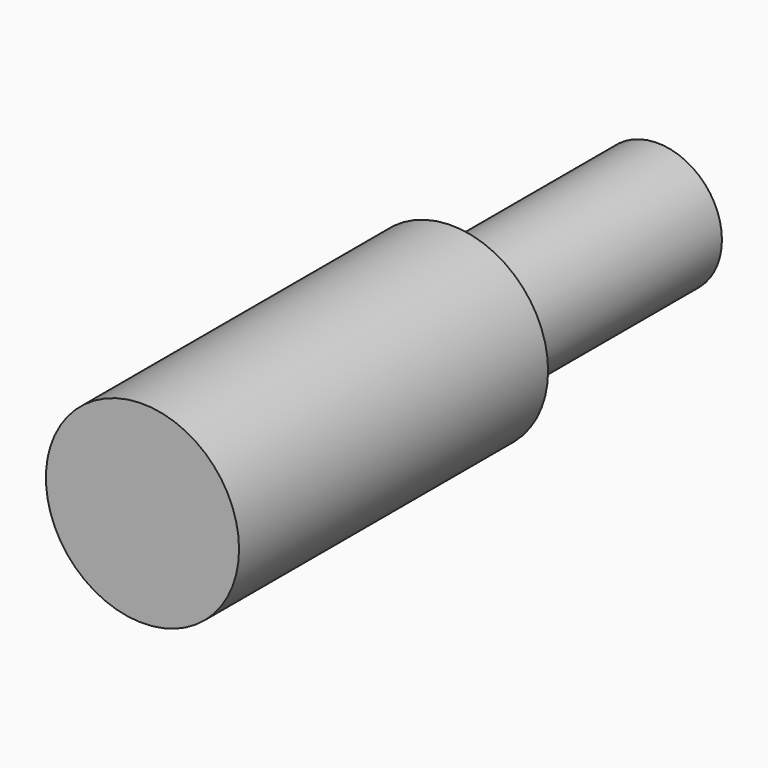
from build123d import *

# Parameters (mm, degrees)
F0_R     = 4.7625
F0_R_2   = 3.175
F1_DEPTH = 19.05
F2_DEPTH = 12.7


with BuildPart() as f1:
    # F0 (on Front) → F1 (new body)
    with BuildSketch(Plane.XZ):
        Circle(F0_R)
        Circle(F0_R_2, mode=Mode.SUBTRACT)
        Circle(F0_R_2)
    extrude(amount=F1_DEPTH)

    # F0 (on Front) → F2 (join)
    with BuildSketch(Plane.XZ):
        Circle(F0_R_2)
    extrude(amount=-F2_DEPTH)


solid = f1.part
